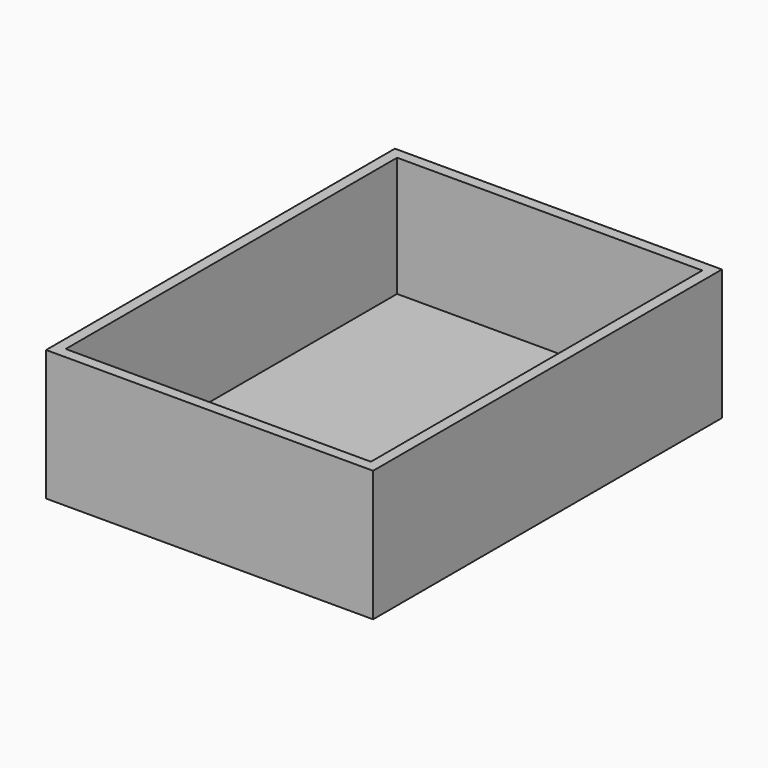
from build123d import *

# Parameters (mm, degrees)
SKETCH_W      = 150
SKETCH_H      = 200
EXTRUDE_DEPTH = 60
SKETCH001_W   = 140
SKETCH001_H   = 190
POCKET_DEPTH  = 55


with BuildPart() as part:
    # Sketch → Extrude (new body)
    with BuildSketch(Plane.XY):
        with Locations((75, 100)):
            Rectangle(SKETCH_W, SKETCH_H)
    extrude(amount=EXTRUDE_DEPTH)

    # Sketch001 (on Face6 of BaseFeature) → Pocket (cut)
    with BuildSketch(Plane.XY.offset(60)):
        with Locations((75, 100)):
            Rectangle(SKETCH001_W, SKETCH001_H)
    extrude(amount=-POCKET_DEPTH, mode=Mode.SUBTRACT)


solid = part.part
